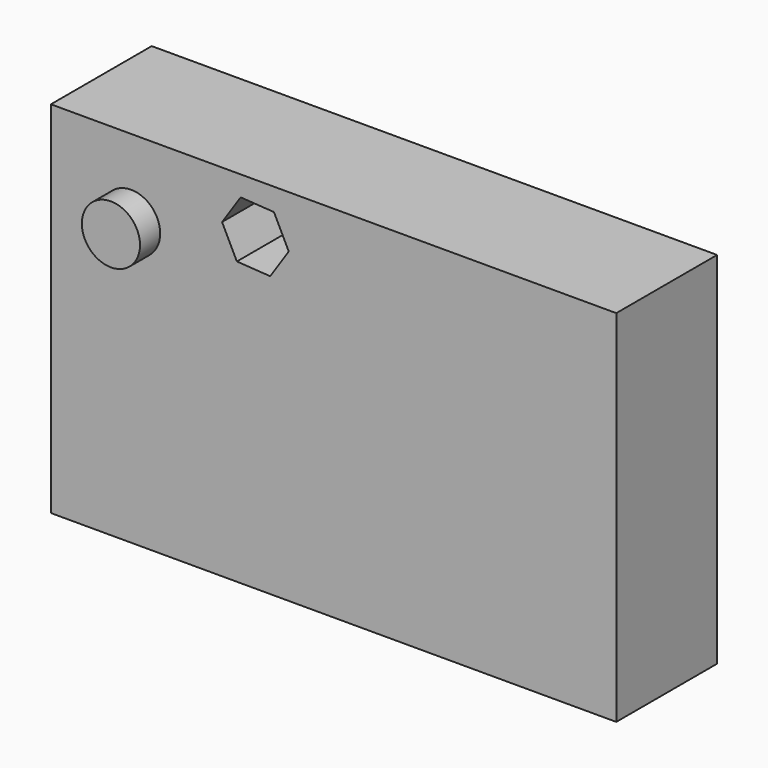
from build123d import *

# Parameters (mm, degrees)
F0_W     = 113.953635
F0_H     = 72.534319
F0_R     = 5.859318
F1_DEPTH = 25.4
F2_DEPTH = 30.48


with BuildPart() as f1:
    # F0 (on Front) → F1 (new body)
    with BuildSketch(Plane.XZ):
        with Locations((7.273636, -2.727615)):
            Rectangle(F0_W, F0_H)
        with Locations((-33.539545, 17.78)):
            Circle(F0_R, mode=Mode.SUBTRACT)
        Polygon((-4.753076, 29.036522), (-1.770401, 23.004169), (-5.503234, 17.40492), (-12.218743, 17.838024), (-15.201418, 23.870377), (-11.468585, 29.469626), align=None, mode=Mode.SUBTRACT)
    extrude(amount=F1_DEPTH)

    # F0 (on Front) → F2 (join)
    with BuildSketch(Plane.XZ):
        with Locations((-33.539545, 17.78)):
            Circle(F0_R)
    extrude(amount=F2_DEPTH)


solid = f1.part
